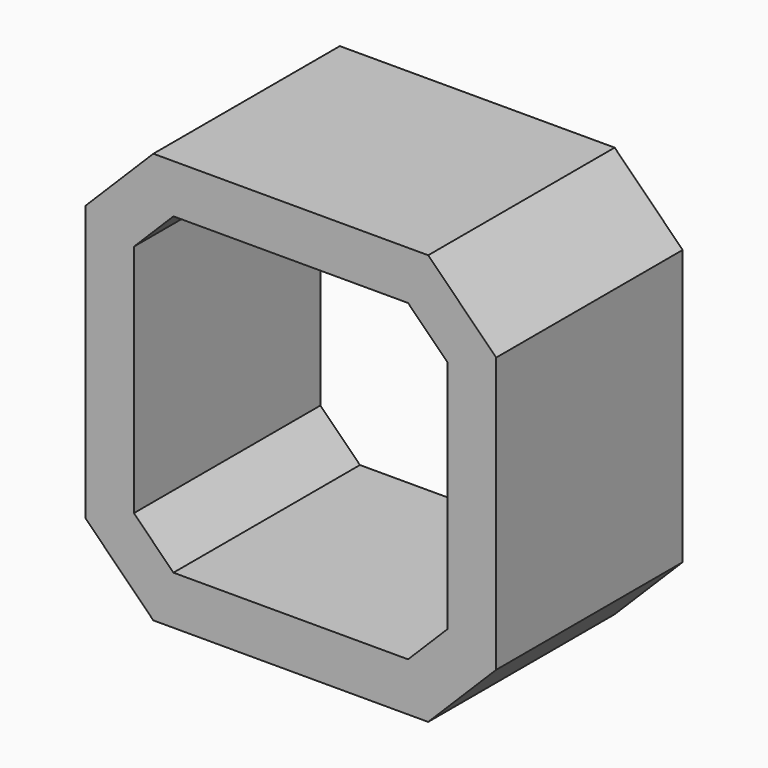
from build123d import *

# Parameters (mm, degrees)
F1_DEPTH = 24
F3_DEPTH = 24.001


with BuildPart() as f1:
    # F0 (on Front) → F1 (new body)
    with BuildSketch(Plane.XZ):
        Polygon((21.15, 14.15), (14.15, 21.15), (-14.15, 21.15), (-21.15, 14.15), (-21.15, -14.15), (-14.15, -21.15), (14.15, -21.15), (21.15, -14.15), align=None)
    extrude(amount=F1_DEPTH)

    # F2 (on face) → F3 (cut, through all)
    with BuildSketch(Plane.XZ.offset(24)):
        Polygon((12.078932, -16.15), (16.15, -12.078932), (16.15, 12.078932), (12.078932, 16.15), (-12.078932, 16.15), (-16.15, 12.078932), (-16.15, -12.078932), (-12.078932, -16.15), align=None)
    extrude(amount=-F3_DEPTH, mode=Mode.SUBTRACT)


solid = f1.part
